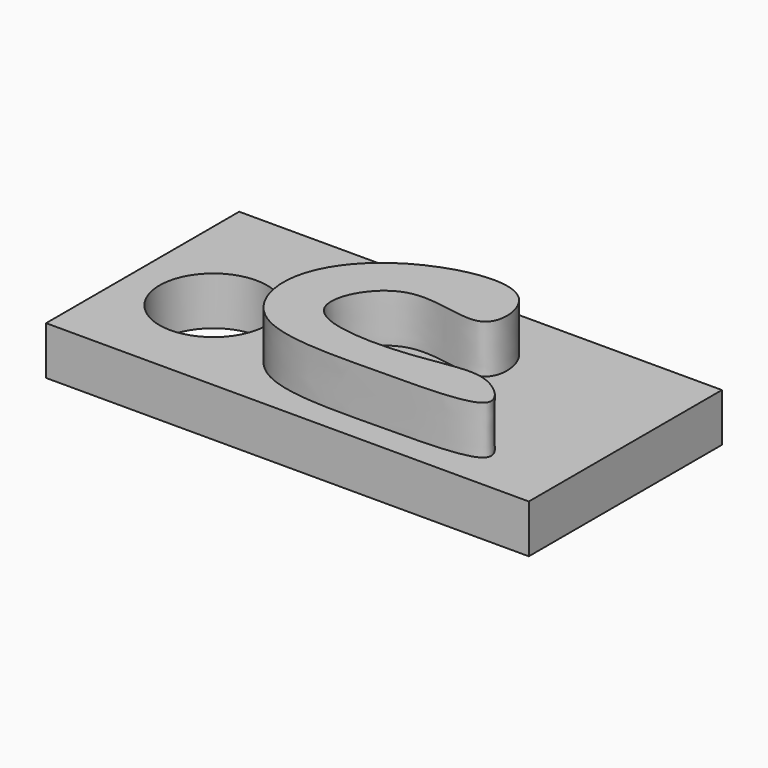
from build123d import *

# Parameters (mm, degrees)
F0_W     = 50.8
F0_H     = 25.4
F1_DEPTH = 5.08
F3_DEPTH = 5.08
F4_R     = 5.669116402
F5_DEPTH = 25.4


with BuildPart() as f1:
    # F0 (on Top) → F1 (new body)
    with BuildSketch(Plane.XY):
        with Locations((-11.2609706491, -2.3962257567)):
            Rectangle(F0_W, F0_H)
    extrude(amount=F1_DEPTH)

    # F2 (on face) → F3 (join)
    with BuildSketch(Plane.XY.offset(5.08)):
        with BuildLine():
            add(Edge.make_bspline(
                [(-3.165865317, 5.1805032417), (-5.441507022, 7.2286547021), (-15.3401351252, 5.1639277512), (-21.3042439155, -3.5698499242), (-17.7324350426, -12.7382505088), (-4.7408867714, -12.2790983526), (9.2398335914, -12.3875001852), (3.5342763799, -6.6956162667), (-2.8052683526, -8.8598894218), (-17.6637398814, -8.7150879288), (-11.6795167845, 2.8759817509), (-1.0600143282, -2.7607274659), (-1.5991713541, 3.77042778), (-3.165865317, 5.1805032417)],
                knots=[0, 0, 0, 0, 0.1038426592, 0.202385617, 0.2865155115, 0.4009345131, 0.5022121165, 0.56383007, 0.6495210145, 0.7539455468, 0.8380419744, 0.9285082239, 1, 1, 1, 1], degree=3))
        make_face()
    extrude(amount=F3_DEPTH)

    # F4 (on face) → F5 (cut)
    with BuildSketch(Plane.XY.offset(5.08)):
        with Locations((-27.9171578586, -4.0292805061)):
            Circle(F4_R)
    extrude(amount=-F5_DEPTH, mode=Mode.SUBTRACT)


solid = f1.part
